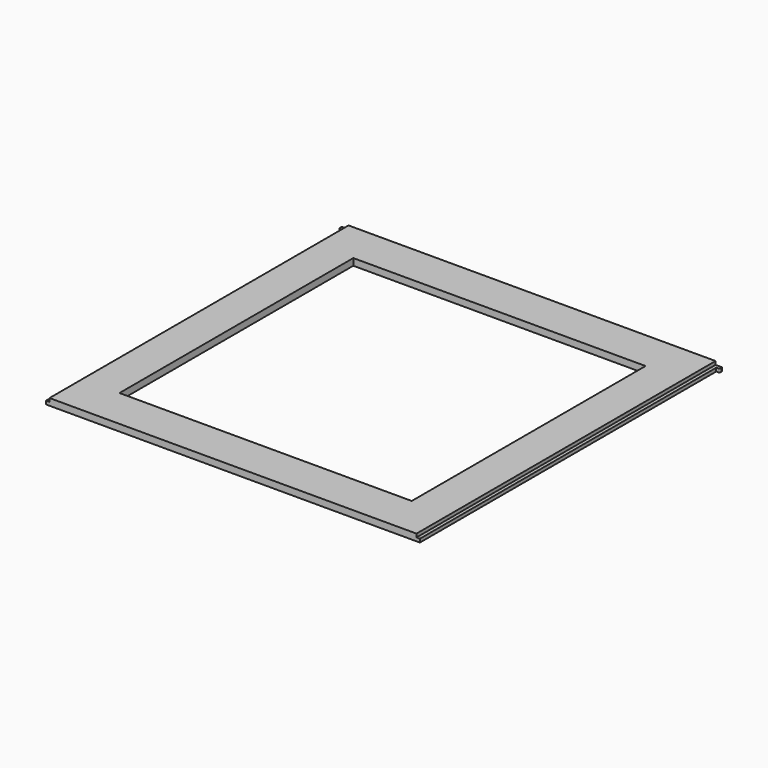
from build123d import *

# Parameters (mm, degrees)
F1_DEPTH = 1.5875
F2_W     = 171.45
F2_H     = 174.625
F3_DEPTH = 1.5875
F4_W     = 136.525
F4_H     = 136.525
F5_DEPTH = 25.4


with BuildPart() as f1:
    # F0 (on Top) → F1 (new body)
    with BuildSketch(Plane.XY):
        with BuildLine():
            Line((87.3125, 88.9), (-87.3125, 88.9))
            Line((-87.3125, 88.9), (-88.519, 88.9))
            ThreePointArc((-88.519, 88.9), (-88.788408, 88.788408), (-88.9, 88.519))
            Line((-88.9, 88.519), (-88.9, 87.6935))
            ThreePointArc((-88.9, 87.6935), (-88.788408, 87.424092), (-88.519, 87.3125))
            Line((-88.519, 87.3125), (-87.3125, 87.3125))
            Line((-87.3125, 87.3125), (-87.3125, -85.725))
            Line((-87.3125, -85.725), (87.3125, -85.725))
            Line((87.3125, -85.725), (87.3125, 87.3125))
            Line((87.3125, 87.3125), (88.519, 87.3125))
            ThreePointArc((88.519, 87.3125), (88.788408, 87.424092), (88.9, 87.6935))
            Line((88.9, 87.6935), (88.9, 88.519))
            ThreePointArc((88.9, 88.519), (88.788408, 88.788408), (88.519, 88.9))
            Line((88.519, 88.9), (87.3125, 88.9))
        make_face()
    extrude(amount=F1_DEPTH)

    # F2 (on face) → F3 (join)
    with BuildSketch(Plane.XY.offset(1.5875)):
        with Locations((0, 1.5875)):
            Rectangle(F2_W, F2_H)
    extrude(amount=F3_DEPTH)

    # F4 (on face) → F5 (cut)
    with BuildSketch(Plane.XY.offset(3.175)):
        with Locations((0, 1.5875)):
            Rectangle(F4_W, F4_H)
    extrude(amount=-F5_DEPTH, mode=Mode.SUBTRACT)


solid = f1.part
